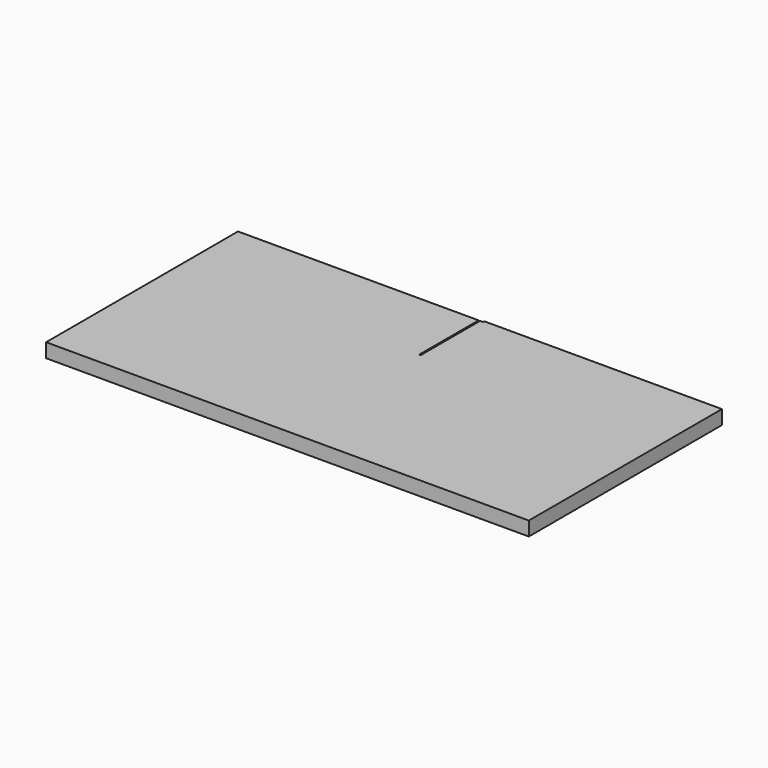
from build123d import *

# Parameters (mm, degrees)
F0_W     = 650
F0_H     = 325
F1_DEPTH = 19
F2_W     = 2
F2_H     = 19
F3_DEPTH = 330
F4_W     = 2
F4_H     = 19
F5_DEPTH = 100


with BuildPart() as f1:
    # F0 (on Top) → F1 (new body)
    with BuildSketch(Plane.XY):
        Rectangle(F0_W, F0_H)
    extrude(amount=F1_DEPTH)

    # F2 (on face) → F3 (cut)
    with BuildSketch(Plane(origin=(-325, 0, 0), x_dir=(0, -1, 0), z_dir=(-1, 0, 0))):
        with Locations((-161.5, 9.5)):
            Rectangle(F2_W, F2_H)
    extrude(amount=-F3_DEPTH, mode=Mode.SUBTRACT)

    # F4 (on face) → F5 (cut)
    with BuildSketch(Plane(origin=(0, 160.5, 0), x_dir=(-1, 0, 0), z_dir=(0, 1, 0))):
        with Locations((0, 9.5)):
            Rectangle(F4_W, F4_H)
    extrude(amount=-F5_DEPTH, mode=Mode.SUBTRACT)


solid = f1.part
